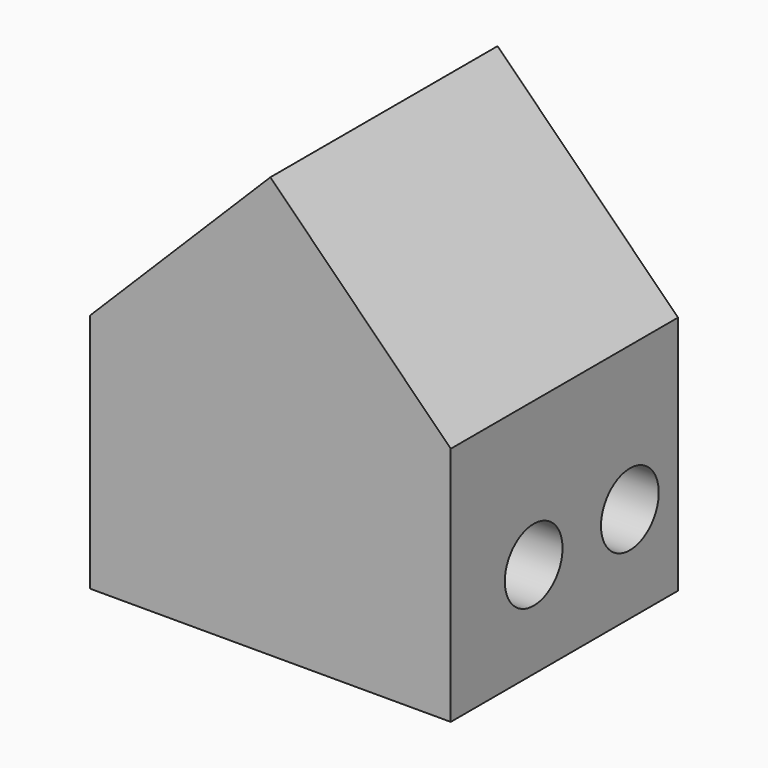
from build123d import *

# Parameters (mm, degrees)
F0_W     = 76.2
F0_H     = 50.8
F1_DEPTH = 60
F2_R     = 7.62
F3_DEPTH = 76.201
F4_DEPTH = 76.201


with BuildPart() as f1:
    # F0 (on Front) → F1 (new body)
    with BuildSketch(Plane.XZ):
        with Locations((38.1, 25.4)):
            Rectangle(F0_W, F0_H)
        Polygon((38.1, 88.9), (0, 50.8), (76.2, 50.8), align=None)
    extrude(amount=F1_DEPTH)

    # F2 (on face) → F3 (cut, through all)
    with BuildSketch(Plane(origin=(0, 0, 0), x_dir=(0, -1, 0), z_dir=(-1, 0, 0))):
        with Locations((12.7, 20.32)):
            Circle(F2_R)
    extrude(amount=-F3_DEPTH, mode=Mode.SUBTRACT)

    # F2 (on face) → F4 (cut, through all)
    with BuildSketch(Plane(origin=(0, 0, 0), x_dir=(0, -1, 0), z_dir=(-1, 0, 0))):
        with Locations((12.7, 20.32)):
            Circle(F2_R)
        with Locations((38.1, 20.32)):
            Circle(F2_R)
    extrude(amount=-F4_DEPTH, mode=Mode.SUBTRACT)


solid = f1.part
